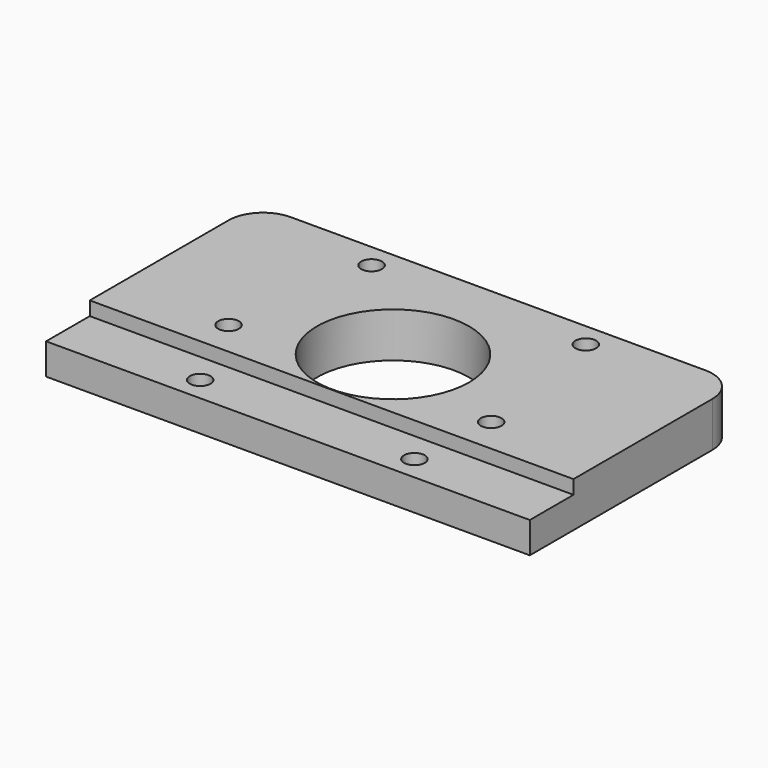
from build123d import *

# Parameters (mm, degrees)
F0_W     = 70
F0_H     = 38
F0_R     = 1.5
F0_R_2   = 11
F1_DEPTH = 6.5
F2_W     = 70
F2_H     = 7.9
F2_R     = 1.5
F3_DEPTH = 2
F4_R     = 5


with BuildPart() as f1:
    # F0 (on Top) → F1 (new body)
    with BuildSketch(Plane.XY):
        Rectangle(F0_W, F0_H)
        with Locations((-15.5, -15.5)):
            Circle(F0_R, mode=Mode.SUBTRACT)
        with Locations((-19, -6)):
            Circle(F0_R, mode=Mode.SUBTRACT)
        with Locations((15.5, -15.5)):
            Circle(F0_R, mode=Mode.SUBTRACT)
        with Locations((19, -6)):
            Circle(F0_R, mode=Mode.SUBTRACT)
        with Locations((-15.5, 15.5)):
            Circle(F0_R, mode=Mode.SUBTRACT)
        Circle(F0_R_2, mode=Mode.SUBTRACT)
        with Locations((15.5, 15.5)):
            Circle(F0_R, mode=Mode.SUBTRACT)
    extrude(amount=F1_DEPTH)

    # F2 (on face) → F3 (cut)
    with BuildSketch(Plane.XY.offset(6.5)):
        with Locations((0, -15.05)):
            Rectangle(F2_W, F2_H)
        with Locations((-15.5, -15.5)):
            Circle(F2_R, mode=Mode.SUBTRACT)
        with Locations((15.5, -15.5)):
            Circle(F2_R, mode=Mode.SUBTRACT)
    extrude(amount=-F3_DEPTH, mode=Mode.SUBTRACT)

    # F4
    f4_edges = [f1.edges().sort_by_distance(p)[0] for p in [
        (35, 19, 3.25),
        (-35, 19, 3.25),
    ]]
    fillet(f4_edges, radius=F4_R)


solid = f1.part
